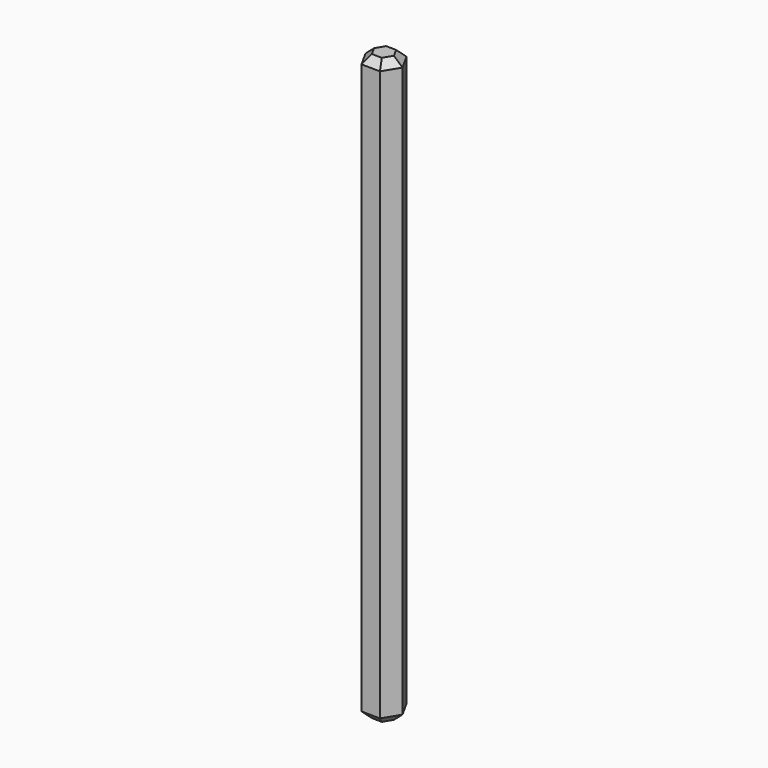
from build123d import *

# Parameters (mm, degrees)
F1_DEPTH = 99.06
F2_SIZE  = 1.27


with BuildPart() as f1:
    # F0 (on Top) → F1 (new body)
    with BuildSketch(Plane.XY):
        Polygon((-3.223582, 1.106647), (-1.687731, -1.672163), (1.486715, -1.731482), (3.125309, 0.988009), (1.589458, 3.766819), (-1.584988, 3.826138), align=None)
    extrude(amount=F1_DEPTH)

    # F2
    f2_edges = [f1.edges().sort_by_distance(p)[0] for p in [
        (-2.404285, 2.466393, 0),
        (-2.455657, -0.282758, 0),
        (-0.100508, -1.701823, 0),
        (2.306012, -0.371737, 0),
        (2.357384, 2.377414, 0),
        (0.002235, 3.796479, 0),
        (-2.404285, 2.466393, 99.06),
        (-2.455657, -0.282758, 99.06),
        (-0.100508, -1.701823, 99.06),
        (2.306012, -0.371737, 99.06),
        (2.357384, 2.377414, 99.06),
        (0.002235, 3.796479, 99.06),
    ]]
    chamfer(f2_edges, length=F2_SIZE)


solid = f1.part
